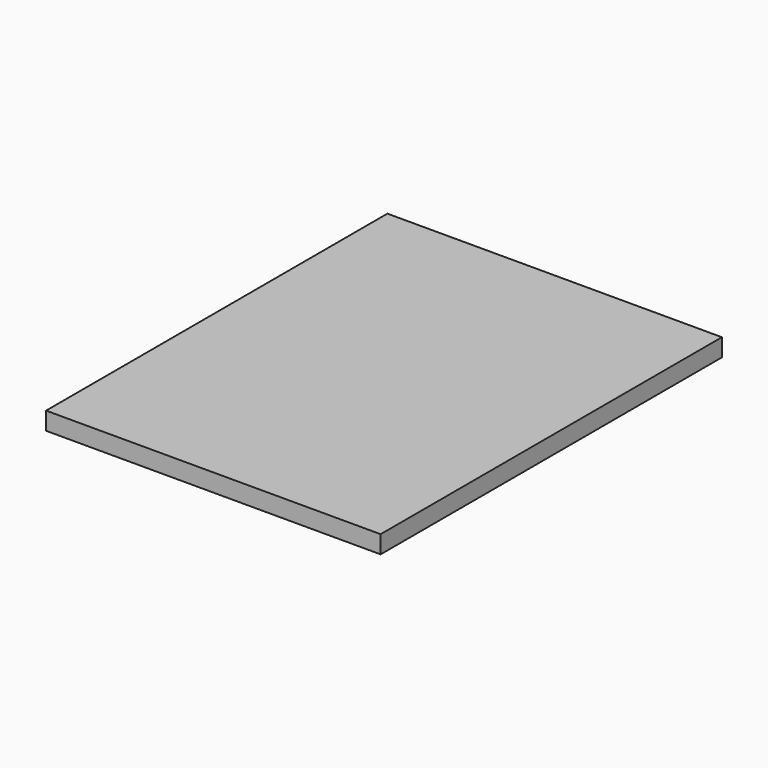
from build123d import *

# Parameters (mm, degrees)
F0_W     = 12.7
F0_H     = 12.7
F1_DEPTH = 3.175


with BuildPart() as f1:
    # F0 (on Top) → F1 (new body)
    with BuildSketch(Plane.XY):
        Polygon((-36.290906, 23.090909), (-36.290906, -40.409091), (10.759089, -40.409091), (10.759089, -27.709091), (23.459089, -27.709091), (23.459089, 23.090909), (10.759089, 23.090909), (10.759089, 35.790909), (-23.590906, 35.790909), (-23.590906, 23.090909), align=None)
        with Locations((-29.940906, 29.440909)):
            Rectangle(F0_W, F0_H)
        with Locations((17.109089, 29.440909)):
            Rectangle(F0_W, F0_H)
        with Locations((17.109089, -34.059091)):
            Rectangle(F0_W, F0_H)
    extrude(amount=F1_DEPTH)


solid = f1.part
